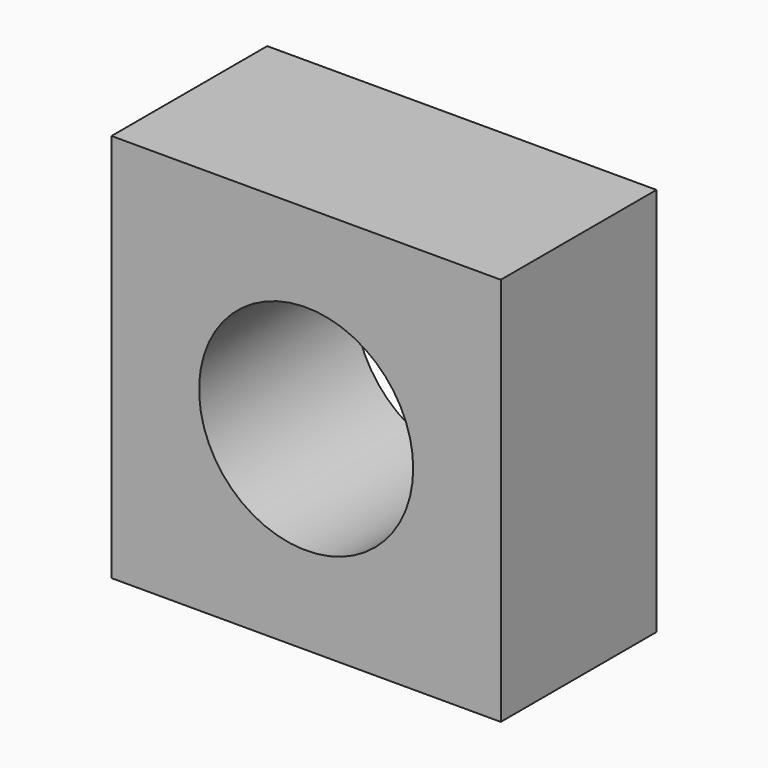
from build123d import *

# Parameters (mm, degrees)
F0_W     = 30
F0_H     = 30
F1_DEPTH = 15
F3_D     = 16.5


with BuildPart() as f1:
    # F0 (on Front) → F1 (new body)
    with BuildSketch(Plane.XZ):
        Rectangle(F0_W, F0_H)
    extrude(amount=F1_DEPTH)

    # F3 (through all)
    with Locations(Plane(origin=(0, 0, 0), x_dir=(-1, 0, 0), z_dir=(0, 1, 0))):
        with Locations((0, 0)):
            Hole(F3_D / 2)


solid = f1.part
